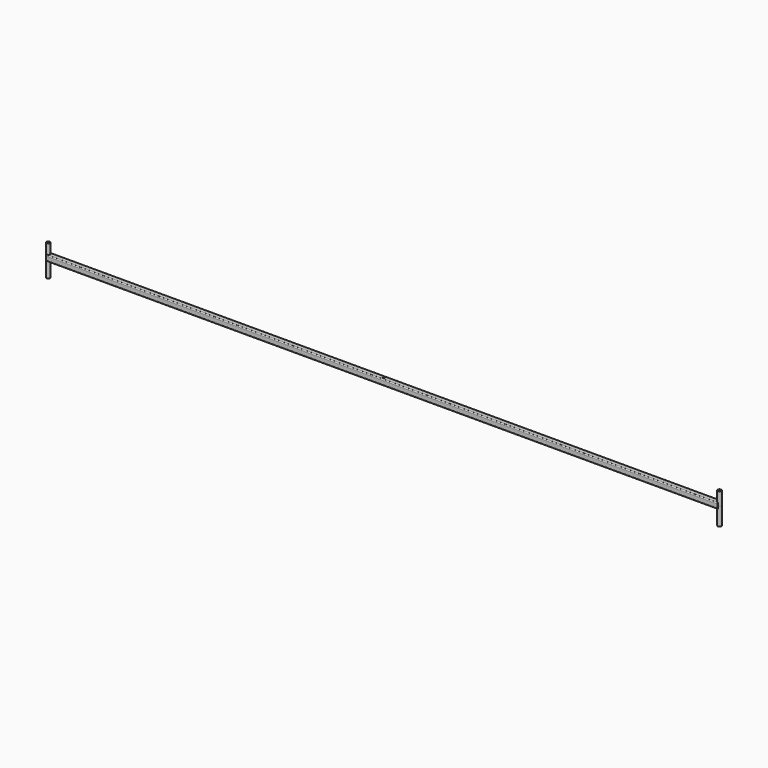
from build123d import *

# Parameters (mm, degrees)
F1_DEPTH      = 1835
F2_R          = 10
F3_DEPTH      = 30.001
F4_R          = 9.525
F4_R_2        = 7.525
F5_DEPTH      = 70
F5_DEPTH_BACK = 100
F4_R_3        = 10
F4_R_4        = 8
F6_R          = 5.25
F7_DEPTH      = 115.001


with BuildPart() as f1:
    # F0 (on Right) → F1 (new body, symmetric)
    with BuildSketch(Plane.YZ):
        with BuildLine():
            Line((-10, -15), (10, -15))
            ThreePointArc((10, -15), (13.5355339059, -13.5355339059), (15, -10))
            Line((15, -10), (15, 10))
            ThreePointArc((15, 10), (13.5355339059, 13.5355339059), (10, 15))
            Line((10, 15), (-10, 15))
            ThreePointArc((-10, 15), (-13.5355339059, 13.5355339059), (-15, 10))
            Line((-15, 10), (-15, -10))
            ThreePointArc((-15, -10), (-13.5355339059, -13.5355339059), (-10, -15))
        make_face()
        with BuildLine():
            ThreePointArc((10, 12.5), (11.767766953, 11.767766953), (12.5, 10))
            Line((12.5, 10), (12.5, -10))
            ThreePointArc((12.5, -10), (11.767766953, -11.767766953), (10, -12.5))
            Line((10, -12.5), (-10, -12.5))
            ThreePointArc((-10, -12.5), (-11.767766953, -11.767766953), (-12.5, -10))
            Line((-12.5, -10), (-12.5, 10))
            ThreePointArc((-12.5, 10), (-11.767766953, 11.767766953), (-10, 12.5))
            Line((-10, 12.5), (10, 12.5))
        make_face(mode=Mode.SUBTRACT)
    extrude(amount=F1_DEPTH, both=True)

    # F2 (on face) → F3 (cut, through all)
    with BuildSketch(Plane.XY.offset(15)):
        with Locations((-1835, 0)):
            Circle(F2_R)
        with Locations((1835, 0)):
            Circle(F2_R)
    extrude(amount=-F3_DEPTH, mode=Mode.SUBTRACT)

    # F4 (on Top) → F5, piece 2 (join, two sides)
    with BuildSketch(Plane.XY) as f5_2_sk:
        with Locations((1835, 0)):
            Circle(F4_R_3)
        with Locations((1835, 0)):
            Circle(F4_R_4, mode=Mode.SUBTRACT)
    extrude(amount=F5_DEPTH)
    extrude(f5_2_sk.sketch, amount=-F5_DEPTH_BACK)

    # F6 (on face) → F7 (cut, through all)
    with BuildSketch(Plane.XY.offset(15)):
        Circle(F6_R)
    extrude(amount=-F7_DEPTH, mode=Mode.SUBTRACT)


with BuildPart() as f5:
    # F4 (on Top) → F5 (new body, two sides)
    with BuildSketch(Plane.XY) as f5_sk:
        with Locations((-1835, 0)):
            Circle(F4_R)
        with Locations((-1835, 0)):
            Circle(F4_R_2, mode=Mode.SUBTRACT)
    extrude(amount=F5_DEPTH)
    extrude(f5_sk.sketch, amount=-F5_DEPTH_BACK)


solid = Compound([f1.part, f5.part])
